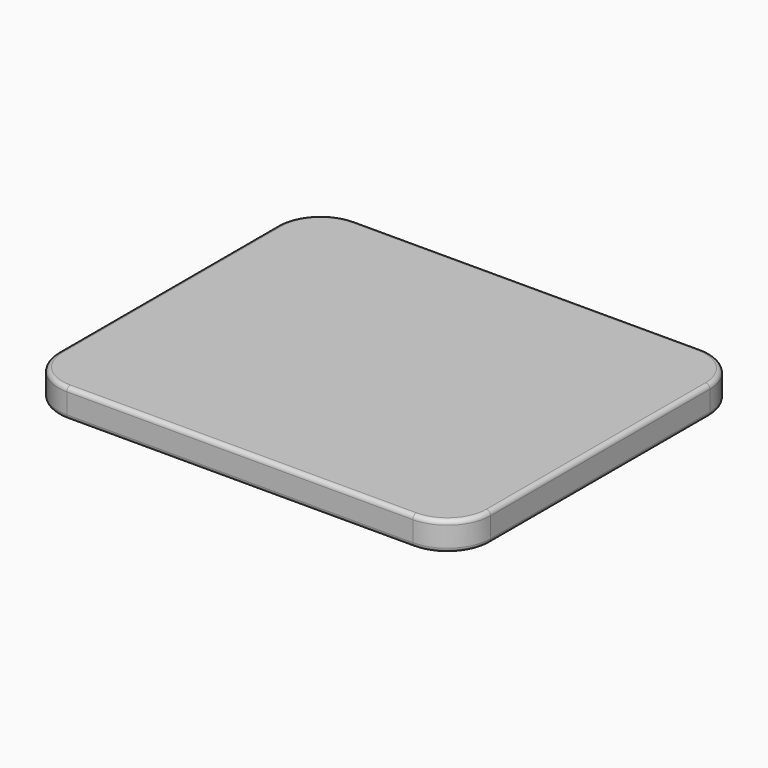
from build123d import *

# Parameters (mm, degrees)
F1_DEPTH = 20
F2_R     = 3


with BuildPart() as f1:
    # F0 (on Top) → F1 (new body)
    with BuildSketch(Plane.XY):
        with BuildLine():
            Line((126.58147, 89.433213), (-113.41853, 89.433213))
            ThreePointArc((-113.41853, 89.433213), (-134.631733, 80.646416), (-143.41853, 59.433213))
            Line((-143.41853, 59.433213), (-143.41853, -130.566787))
            ThreePointArc((-143.41853, -130.566787), (-134.631733, -151.779991), (-113.41853, -160.566787))
            Line((-113.41853, -160.566787), (126.58147, -160.566787))
            ThreePointArc((126.58147, -160.566787), (147.794674, -151.779991), (156.58147, -130.566787))
            Line((156.58147, -130.566787), (156.58147, 59.433213))
            ThreePointArc((156.58147, 59.433213), (147.794674, 80.646416), (126.58147, 89.433213))
        make_face()
    extrude(amount=F1_DEPTH)

    # F2
    f2_edges = [f1.edges().sort_by_distance(p)[0] for p in [
        (156.58147, -35.566787, 20),
        (147.794674, 80.646416, 20),
        (6.58147, 89.433213, 20),
        (-134.631733, 80.646416, 20),
        (-143.41853, -35.566787, 20),
        (-134.631733, -151.779991, 20),
        (6.58147, -160.566787, 20),
        (147.794674, -151.779991, 20),
        (156.58147, -35.566787, 0),
        (147.794674, 80.646416, 0),
        (6.58147, 89.433213, 0),
        (-134.631733, 80.646416, 0),
        (-143.41853, -35.566787, 0),
        (-134.631733, -151.779991, 0),
        (6.58147, -160.566787, 0),
        (147.794674, -151.779991, 0),
    ]]
    fillet(f2_edges, radius=F2_R)


solid = f1.part
